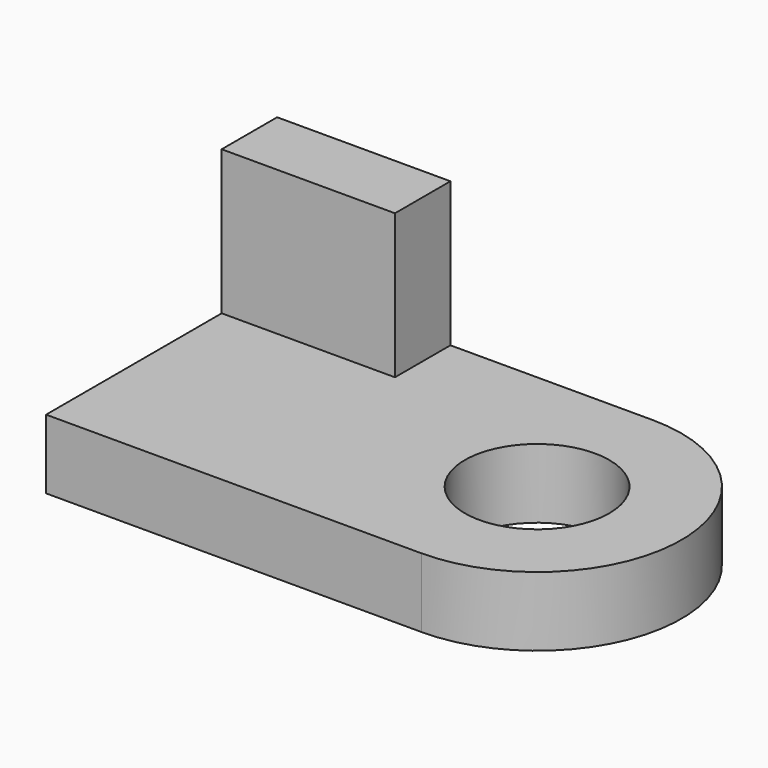
from build123d import *

# Parameters (mm, degrees)
F0_W     = 762
F0_H     = 939.8
F1_DEPTH = 304.8
F2_W     = 762
F2_H     = 304.8
F3_DEPTH = 965.2
F5_DEPTH = 889
F7_DEPTH = 304.8
F8_R     = 317.5
F9_DEPTH = 15240


with BuildPart() as f1:
    # F0 (on Front) → F1 (new body)
    with BuildSketch(Plane.XZ):
        with Locations((-381, 469.9)):
            Rectangle(F0_W, F0_H)
    extrude(amount=F1_DEPTH)

    # F2 (on face) → F3 (join)
    with BuildSketch(Plane.XZ.offset(304.8)):
        with Locations((-381, 152.4)):
            Rectangle(F2_W, F2_H)
    extrude(amount=F3_DEPTH)

    # F4 (on face) → F5 (join)
    with BuildSketch(Plane.YZ):
        Polygon((0, 304.8), (-304.8, 304.8), (-1270, 304.8), (-1270, 0), (0, 0), align=None)
    extrude(amount=F5_DEPTH)

    # F6 (on face) → F7 (join)
    with BuildSketch(Plane.XY.offset(304.8)):
        with BuildLine():
            ThreePointArc((889, -1270), (1338.0128060535, -1084.0128060535), (1524, -635))
            ThreePointArc((1524, -635), (1338.0128060535, -185.9871939465), (889, 0))
            Line((889, 0), (889, -1270))
        make_face()
    extrude(amount=-F7_DEPTH)

    # F8 (on face) → F9 (cut)
    with BuildSketch(Plane.XY.offset(304.8)):
        with Locations((889, -635)):
            Circle(F8_R)
    extrude(amount=-F9_DEPTH, mode=Mode.SUBTRACT)


solid = f1.part
